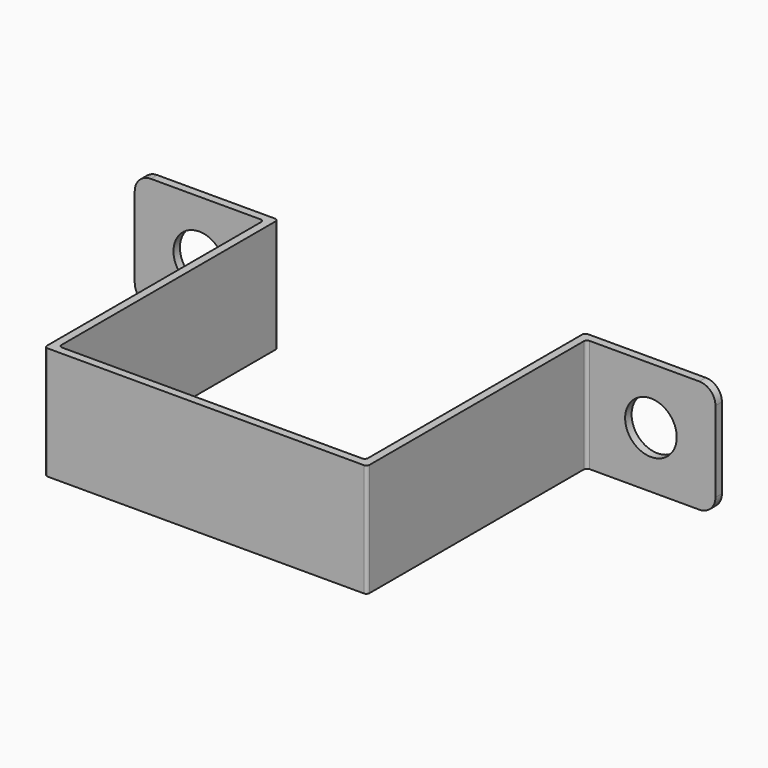
from build123d import *

# Parameters (mm, degrees)
F1_DEPTH = 7
F2_R     = 0.2
F3_R     = 1.6
F4_DEPTH = 0.501
F5_R     = 1


with BuildPart() as f1:
    # F0 (on Top) → F1 (new body)
    with BuildSketch(Plane.XY):
        Polygon((-10, 17), (-10, 0), (10, 0), (10, 17), (18, 17), (18, 17.5), (9.5, 17.5), (9.5, 0.5), (-9.5, 0.5), (-9.5, 17.5), (-18, 17.5), (-18, 17), align=None)
    extrude(amount=F1_DEPTH)

    # F2
    f2_edges = [f1.edges().sort_by_distance(p)[0] for p in [
        (10, 0, 3.5),
        (-10, 0, 3.5),
        (-9.5, 0.5, 3.5),
        (9.5, 0.5, 3.5),
        (-9.5, 17.5, 3.5),
        (-10, 17, 3.5),
        (10, 17, 3.5),
        (9.5, 17.5, 3.5),
    ]]
    fillet(f2_edges, radius=F2_R)

    # F3 (on face) → F4 (cut, through all)
    with BuildSketch(Plane.XZ.offset(-17)):
        with Locations((14, 3.5)):
            Circle(F3_R)
        with Locations((-14, 3.5)):
            Circle(F3_R)
    extrude(amount=-F4_DEPTH, mode=Mode.SUBTRACT)

    # F5
    f5_edges = [f1.edges().sort_by_distance(p)[0] for p in [
        (18, 17.25, 7),
        (18, 17.25, 0),
        (-18, 17.25, 7),
        (-18, 17.25, 0),
    ]]
    fillet(f5_edges, radius=F5_R)


solid = f1.part
